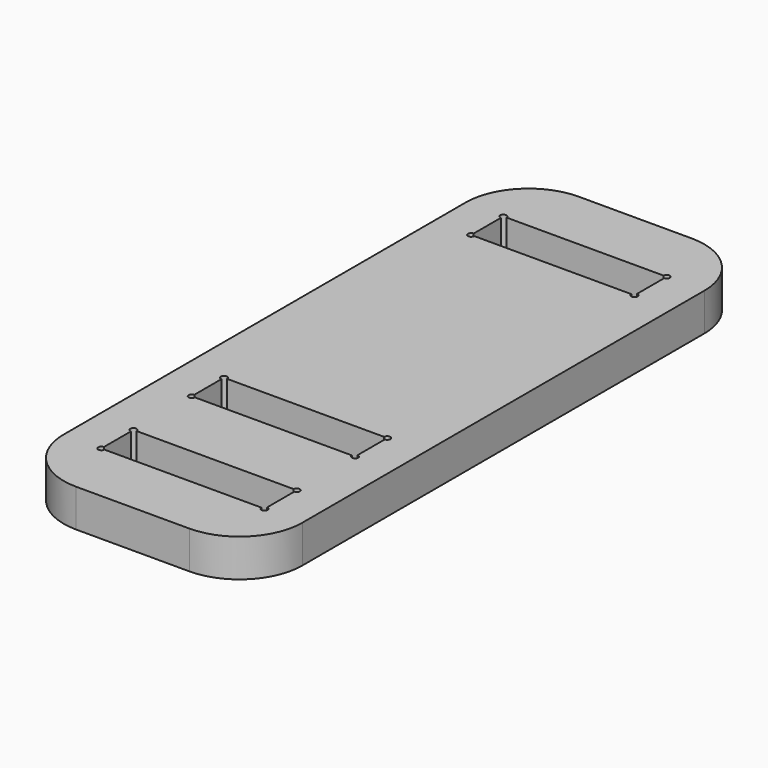
from build123d import *

# Parameters (mm, degrees)
F1_DEPTH = 3


with BuildPart() as f1:
    # F0 (on Top) → F1 (new body)
    with BuildSketch(Plane.XY):
        with BuildLine():
            Line((4.5, 50), (-4.5, 50))
            ThreePointArc((-4.5, 50), (-8.035534, 48.535534), (-9.5, 45))
            Line((-9.5, 45), (-9.5, 5))
            ThreePointArc((-9.5, 5), (-8.035534, 1.464466), (-4.5, 0))
            Line((-4.5, 0), (4.5, 0))
            ThreePointArc((4.5, 0), (8.035534, 1.464466), (9.5, 5))
            Line((9.5, 5), (9.5, 45))
            ThreePointArc((9.5, 45), (8.035534, 48.535534), (4.5, 50))
        make_face()
        with BuildLine():
            ThreePointArc((-6.5, 7.95), (-6.676777, 8.376777), (-6.25, 8.2))
            Line((-6.25, 8.2), (6.25, 8.2))
            ThreePointArc((6.25, 8.2), (6.5, 8.45), (6.75, 8.2))
            ThreePointArc((6.75, 8.2), (6.676777, 8.023223), (6.5, 7.95))
            Line((6.5, 7.95), (6.5, 5.25))
            ThreePointArc((6.5, 5.25), (6.676777, 5.176777), (6.75, 5))
            ThreePointArc((6.75, 5), (6.5, 4.75), (6.25, 5))
            Line((6.25, 5), (-6.25, 5))
            ThreePointArc((-6.25, 5), (-6.676777, 4.823223), (-6.5, 5.25))
            Line((-6.5, 5.25), (-6.5, 7.95))
        make_face(mode=Mode.SUBTRACT)
        with BuildLine():
            ThreePointArc((-6.5, 16.95), (-6.676777, 17.376777), (-6.25, 17.2))
            Line((-6.25, 17.2), (6.25, 17.2))
            ThreePointArc((6.25, 17.2), (6.5, 17.45), (6.75, 17.2))
            ThreePointArc((6.75, 17.2), (6.676777, 17.023223), (6.5, 16.95))
            Line((6.5, 16.95), (6.5, 14.25))
            ThreePointArc((6.5, 14.25), (6.676777, 14.176777), (6.75, 14))
            ThreePointArc((6.75, 14), (6.5, 13.75), (6.25, 14))
            Line((6.25, 14), (-6.25, 14))
            ThreePointArc((-6.25, 14), (-6.676777, 13.823223), (-6.5, 14.25))
            Line((-6.5, 14.25), (-6.5, 16.95))
        make_face(mode=Mode.SUBTRACT)
        with BuildLine():
            ThreePointArc((-6.5, 44.75), (-6.676777, 45.176777), (-6.25, 45))
            Line((-6.25, 45), (6.25, 45))
            ThreePointArc((6.25, 45), (6.5, 45.25), (6.75, 45))
            ThreePointArc((6.75, 45), (6.676777, 44.823223), (6.5, 44.75))
            Line((6.5, 44.75), (6.5, 42.05))
            ThreePointArc((6.5, 42.05), (6.676777, 41.976777), (6.75, 41.8))
            ThreePointArc((6.75, 41.8), (6.5, 41.55), (6.25, 41.8))
            Line((6.25, 41.8), (-6.25, 41.8))
            ThreePointArc((-6.25, 41.8), (-6.676777, 41.623223), (-6.5, 42.05))
            Line((-6.5, 42.05), (-6.5, 44.75))
        make_face(mode=Mode.SUBTRACT)
    extrude(amount=F1_DEPTH)


solid = f1.part
